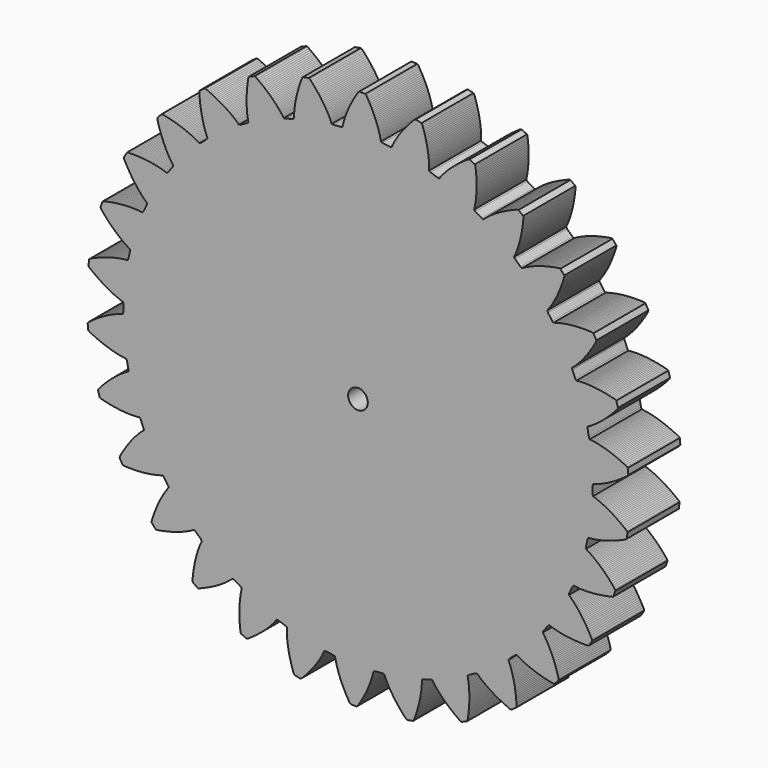
from build123d import *

# Parameters (mm, degrees)
F0_R     = 3.840639
F1_DEPTH = 25.4


with BuildPart() as f1:
    # F0 (on Front) → F1 (new body)
    with BuildSketch(Plane.XZ):
        Polygon((91.565197, -2.919908), (91.611933, 7.6e-05), (91.784145, 0.636854), (92.065323, 0.719404), (92.357423, 0.808812), (92.660445, 0.905332), (92.972103, 1.00871), (93.294429, 1.118946), (93.627931, 1.237564), (93.969561, 1.36558), (94.321097, 1.500708), (94.683809, 1.643964), (95.054141, 1.795602), (95.434379, 1.956892), (95.823253, 2.12758), (96.221525, 2.308174), (96.627925, 2.49842), (97.042707, 2.697048), (97.467141, 2.907614), (97.898433, 3.126562), (98.339631, 3.358464), (98.785909, 3.59951), (99.241839, 3.851732), (99.705135, 4.114876), (100.175035, 4.390212), (100.652047, 4.677232), (101.135663, 4.97492), (101.625883, 5.28607), (102.123469, 5.608396), (102.626389, 5.943676), (103.135151, 6.29064), (103.650517, 6.651574), (104.169947, 7.025208), (104.694711, 7.411034), (105.225317, 7.81083), (105.515131, 8.204784), (105.305581, 10.560126), (104.951251, 10.897692), (104.358669, 11.196396), (103.772945, 11.484686), (103.195603, 11.760276), (102.625119, 12.02342), (102.063017, 12.275642), (101.507519, 12.516434), (100.961673, 12.746812), (100.424463, 12.966014), (99.895381, 13.17404), (99.375697, 13.372414), (98.864395, 13.56012), (98.361475, 13.737412), (97.869731, 13.905814), (97.385861, 14.06431), (96.911897, 14.213154), (96.448601, 14.35387), (95.993941, 14.486204), (95.550457, 14.608632), (95.116117, 14.722932), (94.693207, 14.830374), (94.279695, 14.929434), (93.877359, 15.02062), (93.484675, 15.105964), (93.104183, 15.18318), (92.733597, 15.253284), (92.373933, 15.318308), (92.025191, 15.37622), (91.688895, 15.42829), (91.362251, 15.47528), (91.048307, 15.516682), (90.745031, 15.552496), (90.454201, 15.584246), (90.171753, 16.180892), (89.609651, 19.047282), (89.646735, 19.705904), (89.904545, 19.845096), (90.171753, 19.99267), (90.447597, 20.149642), (90.731061, 20.31652), (91.023669, 20.491526), (91.323897, 20.677454), (91.632507, 20.873034), (91.948229, 21.07852), (92.272079, 21.293404), (92.604057, 21.519464), (92.941623, 21.756446), (93.286301, 22.004604), (93.639107, 22.26343), (93.997247, 22.533686), (94.362245, 22.814864), (94.733085, 23.108234), (95.109513, 23.41278), (95.492545, 23.730026), (95.879641, 24.05921), (96.272325, 24.40084), (96.670597, 24.75517), (97.072933, 25.121692), (97.479333, 25.50193), (97.891575, 25.89309), (98.306357, 26.299998), (98.725457, 26.71859), (99.147097, 27.151406), (99.572801, 27.596668), (100.001553, 28.056662), (100.432591, 28.52961), (100.866931, 29.01729), (101.302033, 29.51894), (101.503455, 29.964202), (100.809019, 32.22404), (100.392713, 32.478802), (99.750601, 32.649998), (99.118141, 32.80824), (98.495079, 32.958608), (97.881923, 33.097546), (97.279689, 33.22734), (96.687107, 33.348498), (96.105701, 33.460258), (95.533947, 33.562112), (94.972861, 33.655584), (94.422951, 33.741436), (93.884217, 33.818398), (93.356405, 33.887486), (92.839769, 33.949208), (92.333801, 34.00458), (91.839263, 34.051062), (91.356917, 34.092718), (90.884223, 34.127008), (90.425245, 34.15444), (89.976173, 34.176792), (89.540563, 34.193302), (89.114859, 34.204224), (88.702617, 34.211336), (88.301805, 34.212352), (87.911661, 34.208542), (87.535741, 34.20016), (87.170489, 34.188984), (86.817683, 34.173998), (86.477323, 34.15444), (86.149409, 34.132596), (85.832417, 34.107958), (85.529141, 34.080018), (85.237041, 34.050046), (84.837245, 34.575064), (83.690689, 37.26213), (83.590105, 37.914148), (83.813625, 38.10414), (84.043495, 38.303784), (84.280731, 38.514858), (84.524825, 38.736854), (84.774253, 38.969518), (85.028761, 39.213358), (85.290889, 39.468374), (85.556573, 39.734312), (85.828353, 40.012696), (86.105213, 40.303526), (86.387661, 40.605532), (86.673157, 40.919476), (86.963733, 41.244596), (87.258881, 41.583686), (87.556061, 41.934968), (87.858067, 42.298696), (88.162613, 42.676648), (88.471223, 43.065014), (88.782881, 43.468874), (89.095555, 43.883656), (89.411023, 44.313424), (89.728269, 44.755892), (90.047801, 45.212076), (90.368857, 45.680452), (90.689913, 46.164068), (91.012239, 46.660384), (91.336089, 47.171686), (91.659939, 47.696704), (91.982519, 48.235184), (92.306369, 48.788142), (92.628695, 49.354308), (92.951275, 49.934698), (93.054653, 50.412726), (91.905557, 52.478508), (91.445309, 52.642592), (90.782369, 52.675358), (90.130351, 52.700504), (89.489763, 52.717014), (88.861367, 52.725142), (88.245417, 52.727936), (87.641913, 52.722348), (87.049331, 52.709902), (86.468941, 52.690598), (85.901251, 52.66596), (85.344483, 52.63548), (84.801685, 52.59992), (84.271079, 52.55674), (83.751395, 52.510258), (83.245935, 52.459204), (82.752413, 52.402562), (82.271591, 52.34211), (81.802961, 52.27734), (81.347031, 52.209776), (80.904563, 52.138148), (80.474541, 52.063726), (80.055695, 51.984986), (79.651835, 51.90523), (79.259151, 51.823696), (78.878913, 51.738352), (78.512391, 51.653008), (78.158061, 51.56614), (77.816431, 51.478002), (77.486739, 51.38834), (77.170001, 51.298932), (76.865709, 51.207746), (76.574879, 51.118084), (76.295225, 51.028676), (75.794845, 51.458698), (74.114889, 53.84833), (73.880701, 54.46428), (74.060025, 54.697198), (74.244429, 54.940784), (74.431881, 55.196054), (74.623397, 55.463262), (74.819231, 55.74317), (75.018875, 56.03527), (75.220297, 56.338292), (75.425529, 56.654014), (75.633809, 56.983198), (75.844375, 57.325082), (76.056719, 57.677634), (76.271603, 58.04568), (76.487757, 58.424648), (76.705689, 58.817586), (76.924891, 59.222462), (77.143839, 59.641562), (77.364311, 60.074124), (77.584783, 60.519386), (77.803985, 60.97684), (78.024457, 61.449534), (78.243659, 61.934674), (78.462607, 62.43353), (78.680285, 62.946102), (78.895423, 63.47112), (79.110307, 64.011124), (79.322651, 64.564082), (79.531947, 65.130248), (79.739973, 65.710384), (79.943935, 66.30576), (80.146881, 66.913582), (80.343731, 67.53512), (80.538041, 68.17012), (80.540835, 68.658054), (78.986101, 70.439864), (78.502485, 70.50438), (77.846657, 70.398462), (77.203275, 70.286702), (76.574879, 70.171132), (75.957405, 70.048704), (75.354917, 69.922974), (74.764113, 69.792164), (74.188041, 69.657036), (73.624161, 69.518098), (73.073235, 69.374334), (72.535517, 69.229808), (72.012023, 69.080964), (71.502245, 68.92958), (71.004659, 68.776418), (70.519519, 68.62097), (70.049619, 68.46222), (69.590895, 68.303724), (69.147157, 68.142434), (68.714341, 67.981398), (68.297019, 67.818584), (67.890111, 67.656024), (67.498951, 67.493464), (67.118713, 67.332174), (66.752191, 67.169614), (66.397861, 67.008324), (66.057501, 66.848558), (65.728063, 66.688792), (65.412595, 66.53182), (65.109573, 66.375864), (64.817219, 66.221686), (64.538835, 66.070048), (64.272897, 65.921204), (64.018135, 65.776424), (63.439269, 66.092146), (61.300589, 68.080458), (60.942195, 68.635956), (61.068941, 68.899354), (61.198735, 69.176214), (61.329545, 69.46552), (61.461879, 69.767526), (61.594213, 70.079946), (61.728833, 70.40659), (61.863961, 70.747204), (61.999089, 71.098486), (62.134217, 71.463484), (62.269345, 71.841436), (62.403203, 72.231326), (62.536807, 72.635186), (62.669141, 73.050984), (62.801475, 73.479736), (62.930761, 73.922204), (63.057507, 74.376864), (63.182983, 74.84524), (63.305411, 75.326062), (63.426823, 75.821108), (63.543917, 76.328092), (63.656947, 76.849046), (63.767183, 77.382446), (63.873355, 77.927784), (63.975463, 78.487346), (64.073253, 79.059354), (64.165455, 79.645332), (64.253847, 80.243248), (64.334873, 80.853356), (64.412089, 81.477942), (64.482447, 82.11472), (64.547217, 82.763436), (64.605129, 83.424852), (64.506069, 83.903134), (62.615039, 85.322486), (62.127359, 85.285402), (61.508361, 85.045626), (60.903841, 84.80331), (60.311259, 84.557692), (59.733663, 84.311058), (59.170291, 84.06163), (58.620381, 83.810932), (58.083933, 83.55871), (57.561963, 83.305218), (57.053455, 83.051726), (56.557139, 82.79798), (56.076317, 82.542964), (55.607941, 82.289726), (55.153281, 82.03598), (54.712083, 81.782234), (54.285109, 81.530012), (53.870073, 81.279314), (53.467991, 81.029886), (53.079117, 80.781982), (52.703197, 80.536618), (52.340485, 80.294048), (51.990473, 80.053002), (51.652907, 79.814496), (51.327533, 79.580308), (51.014859, 79.348914), (50.714631, 79.12133), (50.426341, 78.897048), (50.150751, 78.677592), (49.886083, 78.461184), (49.632591, 78.250618), (49.391545, 78.045132), (49.162691, 77.843964), (48.943489, 77.64813), (48.311029, 77.837106), (45.806081, 79.337992), (45.339991, 79.806368), (45.410603, 80.09161), (45.479183, 80.387774), (45.546747, 80.697908), (45.613041, 81.020234), (45.677557, 81.355006), (45.741057, 81.702732), (45.803033, 82.062142), (45.860945, 82.435776), (45.917333, 82.820332), (45.971435, 83.21708), (46.022235, 83.627798), (46.069225, 84.049184), (46.111897, 84.48454), (46.150251, 84.931326), (46.186319, 85.390304), (46.216545, 85.862998), (46.241183, 86.346614), (46.262011, 86.842676), (46.275981, 87.35093), (46.285379, 87.871884), (46.288173, 88.404014), (46.285379, 88.949606), (46.275981, 89.505104), (46.259217, 90.074064), (46.236103, 90.654454), (46.204353, 91.245258), (46.165491, 91.848762), (46.118501, 92.463696), (46.064907, 93.089298), (46.001407, 93.726076), (45.928509, 94.375046), (45.848753, 95.033668), (45.651395, 95.48147), (43.507381, 96.476642), (43.038751, 96.33872), (42.481983, 95.976262), (41.940455, 95.61228), (41.412897, 95.250076), (40.900325, 94.887618), (40.399945, 94.52643), (39.913535, 94.16702), (39.442111, 93.808626), (38.983133, 93.453026), (38.538125, 93.098696), (38.106833, 92.747414), (37.689257, 92.398926), (37.284381, 92.053232), (36.892713, 91.709824), (36.512475, 91.370734), (36.147223, 91.034692), (35.793147, 90.70373), (35.452533, 90.37607), (35.123603, 90.05349), (34.807881, 89.734974), (34.503335, 89.42103), (34.211235, 89.113436), (33.930057, 88.810414), (33.661325, 88.512726), (33.403769, 88.221896), (33.156881, 87.936908), (32.921169, 87.657254), (32.696633, 87.385474), (32.483019, 87.119536), (32.279057, 86.860456), (32.086017, 86.608234), (31.902883, 86.364648), (31.730417, 86.127412), (31.073319, 86.18126), (28.308783, 87.127918), (27.757857, 87.488852), (27.765985, 87.782476), (27.771573, 88.086768), (27.773097, 88.404014), (27.771573, 88.733198), (27.764461, 89.075082), (27.755063, 89.427634), (27.739823, 89.792886), (27.720519, 90.169314), (27.695881, 90.55641), (27.665401, 90.957476), (27.629333, 91.36794), (27.586661, 91.791104), (27.538655, 92.22519), (27.483283, 92.670452), (27.422831, 93.127652), (27.353997, 93.595012), (27.278051, 94.074564), (27.195501, 94.563768), (27.103045, 95.064148), (27.003985, 95.575196), (26.896289, 96.095896), (26.780719, 96.628026), (26.655497, 97.170824), (26.520369, 97.723782), (26.377113, 98.28563), (26.223951, 98.857892), (26.059867, 99.440568), (25.887655, 100.03188), (25.702997, 100.63259), (25.508941, 101.242952), (25.303455, 101.861696), (25.087047, 102.490092), (24.801805, 102.885824), (22.497517, 103.41516), (22.068003, 103.181734), (21.599373, 102.710564), (21.145729, 102.243458), (20.704785, 101.777876), (20.277557, 101.317374), (19.864553, 100.86119), (19.463233, 100.408054), (19.075883, 99.960252), (18.701233, 99.516514), (18.340045, 99.07684), (17.991557, 98.644024), (17.653991, 98.215526), (17.330141, 97.792362), (17.018483, 97.376056), (16.718255, 96.965592), (16.430219, 96.561986), (16.153359, 96.163714), (15.887167, 95.772046), (15.633675, 95.387998), (15.389835, 95.010046), (15.156917, 94.64073), (14.935175, 94.278526), (14.724101, 93.924196), (14.521663, 93.577232), (14.330147, 93.239412), (14.149553, 92.908704), (13.975817, 92.586124), (13.813257, 92.273704), (13.659079, 91.968904), (13.514553, 91.673756), (13.377901, 91.387498), (13.249885, 91.110384), (13.129997, 90.843176), (12.475185, 90.759102), (9.576029, 91.110384), (8.961095, 91.348636), (8.907501, 91.636926), (8.849589, 91.93563), (8.786089, 92.247034), (8.715985, 92.56809), (8.638769, 92.900576), (8.554695, 93.24373), (8.465033, 93.597552), (8.367497, 93.961534), (8.262595, 94.336184), (8.149819, 94.72074), (8.028407, 95.116218), (7.900391, 95.521602), (7.762469, 95.934606), (7.616419, 96.359548), (7.460463, 96.79338), (7.296633, 97.237118), (7.122897, 97.688984), (6.939763, 98.15101), (6.746723, 98.62218), (6.542761, 99.101732), (6.329147, 99.589412), (6.104611, 100.085474), (5.869153, 100.589918), (5.623535, 101.10122), (5.365979, 101.622174), (5.097247, 102.149986), (4.816069, 102.685926), (4.523969, 103.227454), (4.219423, 103.777364), (3.902685, 104.334132), (3.573247, 104.896234), (3.229839, 105.465448), (2.868905, 105.794886), (0.505689, 105.83197), (0.133579, 105.515232), (-0.227609, 104.95694), (-0.574827, 104.40576), (-0.908075, 103.85839), (-1.230655, 103.31991), (-1.540789, 102.786256), (-1.838477, 102.259968), (-2.123719, 101.741808), (-2.398039, 101.229236), (-2.659659, 100.725046), (-2.911881, 100.22873), (-3.151911, 99.73978), (-3.380511, 99.258704), (-3.599459, 98.78601), (-3.807739, 98.322968), (-4.005859, 97.866784), (-4.193565, 97.420252), (-4.371365, 96.982102), (-4.540783, 96.553604), (-4.700549, 96.134758), (-4.850917, 95.72404), (-4.992649, 95.322974), (-5.126253, 94.933084), (-5.250459, 94.551576), (-5.367553, 94.180736), (-5.476265, 93.819548), (-5.578119, 93.469536), (-5.673369, 93.129176), (-5.760237, 92.799992), (-5.840247, 92.479952), (-5.914669, 92.171342), (-5.982233, 91.873908), (-6.044209, 91.587142), (-6.667017, 91.369464), (-9.576333, 91.110384), (-10.227843, 91.215286), (-10.339603, 91.486558), (-10.458221, 91.767736), (-10.584967, 92.058312), (-10.721365, 92.357524), (-10.865891, 92.667658), (-11.018799, 92.984396), (-11.180089, 93.312564), (-11.351031, 93.64886), (-11.531371, 93.993284), (-11.721871, 94.34609), (-11.923039, 94.707024), (-12.132589, 95.07634), (-12.353061, 95.452514), (-12.584455, 95.83834), (-12.826771, 96.229754), (-13.078993, 96.629296), (-13.343661, 97.036204), (-13.618997, 97.449208), (-13.906017, 97.869832), (-14.204975, 98.295536), (-14.515109, 98.728098), (-14.837689, 99.167518), (-15.172461, 99.611256), (-15.519425, 100.062106), (-15.879343, 100.51702), (-16.252469, 100.977014), (-16.638549, 101.443104), (-17.036821, 101.913004), (-17.450333, 102.386714), (-17.876037, 102.864996), (-18.314187, 103.347342), (-18.767577, 103.832482), (-19.189471, 104.078862), (-21.510015, 103.624202), (-21.807449, 103.237106), (-22.044431, 102.617092), (-22.269221, 102.003936), (-22.482581, 101.400432), (-22.685527, 100.806326), (-22.877043, 100.220602), (-23.058653, 99.64326), (-23.231119, 99.07684), (-23.392409, 98.518802), (-23.543793, 97.971686), (-23.686033, 97.432952), (-23.819637, 96.904886), (-23.943589, 96.38698), (-24.059159, 95.879742), (-24.166855, 95.38241), (-24.265915, 94.895746), (-24.356847, 94.419242), (-24.439397, 93.954676), (-24.516867, 93.499762), (-24.585447, 93.056024), (-24.647677, 92.623462), (-24.702541, 92.203092), (-24.751055, 91.792374), (-24.794997, 91.394102), (-24.832589, 91.00726), (-24.863831, 90.630832), (-24.890247, 90.267104), (-24.912345, 89.914298), (-24.928855, 89.573684), (-24.941047, 89.244754), (-24.949683, 88.927508), (-24.953493, 88.622962), (-24.955017, 88.329592), (-25.517119, 87.986184), (-28.309087, 87.127918), (-28.969233, 87.096168), (-29.134587, 87.337214), (-29.309593, 87.587912), (-29.493997, 87.845976), (-29.688561, 88.11039), (-29.893793, 88.383186), (-30.110455, 88.66284), (-30.336261, 88.948336), (-30.573243, 89.241706), (-30.822671, 89.540664), (-31.081497, 89.846734), (-31.353277, 90.157884), (-31.634455, 90.476654), (-31.929349, 90.79898), (-32.235165, 91.127148), (-32.553427, 91.460396), (-32.884389, 91.797962), (-33.226019, 92.14137), (-33.581365, 92.488334), (-33.949411, 92.83987), (-34.330919, 93.193946), (-34.724111, 93.553356), (-35.131781, 93.914798), (-35.550627, 94.279796), (-35.984967, 94.647842), (-36.431499, 95.018682), (-36.891493, 95.391808), (-37.365711, 95.766712), (-37.853391, 96.142886), (-38.356565, 96.521854), (-38.871677, 96.901076), (-39.400759, 97.281314), (-39.945081, 97.661552), (-40.409647, 97.814714), (-42.584141, 96.88863), (-42.795215, 96.447686), (-42.897069, 95.791604), (-42.989271, 95.145174), (-43.073599, 94.50992), (-43.148021, 93.887112), (-43.214061, 93.273702), (-43.271719, 92.671468), (-43.321503, 92.081934), (-43.364175, 91.503068), (-43.398719, 90.935632), (-43.426405, 90.37988), (-43.446725, 89.835558), (-43.460695, 89.302412), (-43.469077, 88.782982), (-43.470347, 88.273204), (-43.464759, 87.776634), (-43.455361, 87.291748), (-43.440121, 86.819308), (-43.420817, 86.35906), (-43.395925, 85.911004), (-43.365699, 85.475648), (-43.332425, 85.051214), (-43.295595, 84.640496), (-43.255209, 84.242224), (-43.211267, 83.854874), (-43.163261, 83.481748), (-43.113477, 83.119036), (-43.060899, 82.770548), (-43.007305, 82.434252), (-42.950917, 82.109132), (-42.893005, 81.797474), (-42.833569, 81.49877), (-42.774387, 81.21048), (-43.253939, 80.758614), (-45.806131, 79.337992), (-46.443925, 79.16959), (-46.656269, 79.372282), (-46.879789, 79.580308), (-47.113977, 79.794176), (-47.359087, 80.013124), (-47.616897, 80.236136), (-47.885375, 80.46499), (-48.166553, 80.697908), (-48.460177, 80.93489), (-48.764469, 81.175936), (-49.083239, 81.421554), (-49.412169, 81.669458), (-49.754053, 81.92168), (-50.109653, 82.176442), (-50.477699, 82.434252), (-50.857937, 82.693332), (-51.250621, 82.954952), (-51.657275, 83.21962), (-52.077645, 83.485558), (-52.510461, 83.751496), (-52.956739, 84.020482), (-53.416987, 84.289214), (-53.889681, 84.558962), (-54.376091, 84.829218), (-54.876471, 85.098204), (-55.390567, 85.367952), (-55.918125, 85.636684), (-56.461177, 85.90567), (-57.016421, 86.171608), (-57.585381, 86.437546), (-58.168565, 86.702214), (-58.766481, 86.963834), (-59.378367, 87.222914), (-59.863253, 87.275492), (-61.798225, 85.916592), (-61.912525, 85.442374), (-61.875441, 84.778164), (-61.832515, 84.127924), (-61.781715, 83.489876), (-61.725327, 82.864274), (-61.663097, 82.250864), (-61.594517, 81.650154), (-61.520095, 81.061636), (-61.441355, 80.486834), (-61.357281, 79.924986), (-61.267619, 79.375076), (-61.175417, 78.838882), (-61.077627, 78.315134), (-60.977043, 77.804086), (-60.873665, 77.306754), (-60.765969, 76.821614), (-60.654717, 76.35019), (-60.541433, 75.891212), (-60.427133, 75.44468), (-60.308515, 75.012118), (-60.189897, 74.591748), (-60.068739, 74.183824), (-59.947581, 73.78987), (-59.824899, 73.408108), (-59.700693, 73.038792), (-59.576741, 72.683192), (-59.452789, 72.338768), (-59.330361, 72.00806), (-59.206155, 71.691068), (-59.083219, 71.385252), (-58.962315, 71.091882), (-58.842427, 70.811974), (-58.723809, 70.543242), (-59.098459, 70.00019), (-61.300893, 68.080458), (-61.889411, 67.783024), (-62.138839, 67.937202), (-62.400459, 68.094174), (-62.674525, 68.254448), (-62.960021, 68.417008), (-63.258725, 68.582108), (-63.568859, 68.750256), (-63.892709, 68.919674), (-64.229005, 69.09087), (-64.577747, 69.263082), (-64.938681, 69.436564), (-65.312315, 69.61157), (-65.699411, 69.786576), (-66.100477, 69.961582), (-66.512465, 70.137858), (-66.939693, 70.313118), (-67.379367, 70.486854), (-67.831233, 70.660336), (-68.297069, 70.833818), (-68.776621, 71.00476), (-69.268619, 71.174432), (-69.774333, 71.341056), (-70.292493, 71.50641), (-70.824369, 71.66897), (-71.370215, 71.828736), (-71.929523, 71.985962), (-72.501531, 72.13887), (-73.087001, 72.288984), (-73.686441, 72.435034), (-74.298327, 72.576004), (-74.923929, 72.712148), (-75.563501, 72.844482), (-76.215265, 72.971482), (-76.701675, 72.921698), (-78.311273, 71.190942), (-78.323719, 70.703008), (-78.149983, 70.060896), (-77.972183, 69.43377), (-77.790319, 68.820614), (-77.604391, 68.219904), (-77.415415, 67.63291), (-77.223899, 67.059632), (-77.029589, 66.50007), (-76.832739, 65.954224), (-76.634111, 65.420824), (-76.432943, 64.902918), (-76.230505, 64.397204), (-76.026543, 63.904952), (-75.821057, 63.426924), (-75.615825, 62.961342), (-75.409069, 62.508968), (-75.203837, 62.070818), (-74.997081, 61.645114), (-74.791849, 61.233126), (-74.586363, 60.83333), (-74.382401, 60.447758), (-74.179963, 60.074124), (-73.978795, 59.71319), (-73.778897, 59.365718), (-73.581793, 59.029676), (-73.386213, 58.707096), (-73.194697, 58.396962), (-73.004451, 58.099274), (-72.818523, 57.814286), (-72.635135, 57.541236), (-72.454541, 57.279362), (-72.279535, 57.029934), (-72.107323, 56.791682), (-72.360815, 56.184114), (-74.115193, 53.84833), (-74.629035, 53.434818), (-74.906149, 53.532608), (-75.194185, 53.631668), (-75.495937, 53.732506), (-75.808865, 53.83182), (-76.135255, 53.932404), (-76.474345, 54.031464), (-76.825627, 54.129508), (-77.189609, 54.227298), (-77.567053, 54.323564), (-77.955673, 54.418814), (-78.358009, 54.51127), (-78.774315, 54.601948), (-79.201543, 54.690086), (-79.642487, 54.775684), (-80.095877, 54.858234), (-80.561612, 54.93799), (-81.039767, 55.013936), (-81.531739, 55.085564), (-82.036107, 55.153382), (-82.55287, 55.216882), (-83.082028, 55.276064), (-83.623607, 55.329658), (-84.177581, 55.377918), (-84.745347, 55.42059), (-85.324112, 55.457674), (-85.916668, 55.489424), (-86.520223, 55.514062), (-87.136224, 55.532096), (-87.764595, 55.541748), (-88.403989, 55.545812), (-89.057201, 55.541748), (-89.721411, 55.530826), (-90.185799, 55.381982), (-91.40124, 53.353284), (-91.313051, 52.872462), (-91.009902, 52.281404), (-90.703959, 51.705332), (-90.399413, 51.14323), (-90.092098, 50.59332), (-89.786181, 50.058396), (-89.478866, 49.53922), (-89.172948, 49.031982), (-88.867031, 48.538714), (-88.561139, 48.058908), (-88.256567, 47.593326), (-87.953393, 47.14146), (-87.65159, 46.701786), (-87.35121, 46.276082), (-87.053522, 45.86384), (-86.758653, 45.464298), (-86.465131, 45.078218), (-86.175723, 44.705092), (-85.889084, 44.343904), (-85.605239, 43.996686), (-85.325483, 43.661914), (-85.048471, 43.338064), (-84.777021, 43.02793), (-84.509686, 42.728718), (-84.246466, 42.442206), (-83.988783, 42.166362), (-83.736612, 41.903218), (-83.488581, 41.650996), (-83.247408, 41.411474), (-83.010375, 41.181096), (-82.780226, 40.963418), (-82.556985, 40.755392), (-82.339256, 40.559812), (-82.461913, 39.910842), (-83.691146, 37.26213), (-84.108671, 36.751082), (-84.39945, 36.789436), (-84.702625, 36.826774), (-85.016797, 36.861064), (-85.344787, 36.894084), (-85.685147, 36.924564), (-86.036531, 36.950726), (-86.400361, 36.974348), (-86.777932, 36.993398), (-87.166526, 37.009908), (-87.567567, 37.02083), (-87.97958, 37.027942), (-88.403989, 37.030736), (-88.840843, 37.027942), (-89.290093, 37.02083), (-89.750367, 37.007114), (-90.223035, 36.988064), (-90.706727, 36.961648), (-91.202789, 36.930152), (-91.709926, 36.892814), (-92.229457, 36.847348), (-92.758616, 36.793754), (-93.300194, 36.734318), (-93.852797, 36.667008), (-94.416397, 36.591062), (-94.98965, 36.505464), (-95.575323, 36.413262), (-96.170648, 36.312932), (-96.776972, 36.200918), (-97.394319, 36.08103), (-98.021343, 35.95149), (-98.659391, 35.812552), (-99.305669, 35.663708), (-99.730103, 35.420884), (-100.496294, 33.184414), (-100.310239, 32.732548), (-99.889945, 32.217182), (-99.472394, 31.716802), (-99.056266, 31.230392), (-98.642856, 30.756682), (-98.232189, 30.297704), (-97.822918, 29.852442), (-97.417763, 29.41988), (-97.016748, 29.00078), (-96.61713, 28.595904), (-96.222998, 28.204236), (-95.831635, 27.823998), (-95.445809, 27.457476), (-95.064097, 27.103146), (-94.686476, 26.762786), (-94.314442, 26.433602), (-93.947869, 26.11661), (-93.586833, 25.812064), (-93.231259, 25.51844), (-92.881272, 25.237262), (-92.538118, 24.96726), (-92.200527, 24.70818), (-91.871165, 24.460276), (-91.547315, 24.224564), (-91.230374, 23.998504), (-90.920316, 23.78362), (-90.618539, 23.578134), (-90.323645, 23.383824), (-90.037006, 23.197896), (-89.758622, 23.02289), (-89.488543, 22.857536), (-89.22672, 22.700564), (-88.973127, 22.554514), (-88.958014, 21.894368), (-89.609803, 19.047282), (-89.911606, 18.460034), (-90.203731, 18.43819), (-90.508277, 18.411774), (-90.823847, 18.380532), (-91.15044, 18.344464), (-91.489428, 18.301792), (-91.839466, 18.254802), (-92.200527, 18.202732), (-92.572586, 18.143296), (-92.955669, 18.078526), (-93.351172, 18.005374), (-93.756302, 17.926634), (-94.172481, 17.84129), (-94.598287, 17.747818), (-95.036513, 17.64698), (-95.484391, 17.538268), (-95.941871, 17.421174), (-96.410424, 17.295698), (-96.888579, 17.16184), (-97.376412, 17.018584), (-97.873896, 16.86593), (-98.382379, 16.70464), (-98.899142, 16.533698), (-99.425557, 16.351834), (-99.960252, 16.160318), (-100.504549, 15.958896), (-101.057151, 15.746806), (-101.619406, 15.52354), (-102.189915, 15.289352), (-102.767308, 15.044242), (-103.354353, 14.786432), (-103.948281, 14.517446), (-104.550489, 14.236268), (-104.915665, 13.911402), (-105.199536, 11.564442), (-104.923946, 11.162106), (-104.405786, 10.746054), (-103.893163, 10.34194), (-103.38468, 9.952304), (-102.881684, 9.57613), (-102.384225, 9.212148), (-101.892252, 8.860612), (-101.405792, 8.523046), (-100.92624, 8.196402), (-100.452199, 7.883982), (-99.983671, 7.581976), (-99.523423, 7.291146), (-99.068636, 7.012762), (-98.62218, 6.746824), (-98.182582, 6.490284), (-97.749868, 6.246698), (-97.325434, 6.01251), (-96.907883, 5.78899), (-96.50001, 5.577154), (-96.09897, 5.374208), (-95.707632, 5.181676), (-95.323127, 4.998034), (-94.948299, 4.826076), (-94.583148, 4.661992), (-94.226253, 4.506036), (-93.878959, 4.359986), (-93.539945, 4.222318), (-93.212006, 4.093032), (-92.893667, 3.97162), (-92.58361, 3.85859), (-92.285972, 3.752418), (-91.996539, 3.653104), (-91.718206, 3.562426), (-91.565247, 2.92006), (-91.612085, 7.6e-05), (-91.784348, -0.636702), (-92.065475, -0.719252), (-92.357626, -0.808914), (-92.6608, -0.90518), (-92.97223, -1.008558), (-93.294657, -1.119048), (-93.628134, -1.237666), (-93.969916, -1.365682), (-94.321325, -1.50081), (-94.683732, -1.644066), (-95.05442, -1.795704), (-95.43476, -1.95674), (-95.82338, -2.127682), (-96.221626, -2.308276), (-96.628128, -2.498268), (-97.042935, -2.696896), (-97.467395, -2.907716), (-97.898687, -3.126664), (-98.339656, -3.358566), (-98.786137, -3.599358), (-99.242296, -3.85158), (-99.705312, -4.114724), (-100.175212, -4.390314), (-100.652021, -4.67708), (-101.135713, -4.974768), (-101.626289, -5.285918), (-102.123773, -5.608498), (-102.626744, -5.943524), (-103.135252, -6.290742), (-103.650618, -6.651676), (-104.17015, -7.02531), (-104.695193, -7.411136), (-105.225723, -7.810932), (-105.515105, -8.204886), (-105.305657, -10.559974), (-104.951505, -10.89754), (-104.358948, -11.196498), (-103.773275, -11.484788), (-103.195882, -11.760124), (-102.625373, -12.023268), (-102.063118, -12.27549), (-101.507798, -12.516536), (-100.962079, -12.746914), (-100.424666, -12.966116), (-99.895482, -13.174142), (-99.375951, -13.372516), (-98.864699, -13.559714), (-98.361703, -13.737514), (-97.869756, -13.905916), (-97.386064, -14.064158), (-96.911998, -14.213002), (-96.448982, -14.353464), (-95.994271, -14.485798), (-95.550533, -14.60848), (-95.116447, -14.72278), (-94.693384, -14.830476), (-94.279974, -14.929536), (-93.877587, -15.020468), (-93.484852, -15.106066), (-93.104513, -15.183282), (-92.733825, -15.253386), (-92.374161, -15.31841), (-92.025521, -15.376068), (-91.68925, -15.428392), (-91.362682, -15.475382), (-91.048459, -15.51653), (-90.74531, -15.552598), (-90.454531, -15.584348), (-90.172057, -16.180994), (-89.609803, -19.04713), (-89.647014, -19.705752), (-89.904722, -19.845198), (-90.172057, -19.992518), (-90.447647, -20.149744), (-90.731518, -20.316368), (-91.023669, -20.491374), (-91.324074, -20.677302), (-91.632761, -20.873136), (-91.94833, -21.078368), (-92.27218, -21.293252), (-92.604285, -21.519566), (-92.941877, -21.756548), (-93.286402, -22.004452), (-93.639183, -22.263532), (-93.997475, -22.533788), (-94.362651, -22.814966), (-94.733364, -23.108336), (-95.109563, -23.412882), (-95.492646, -23.729874), (-95.879895, -24.059058), (-96.272604, -24.400942), (-96.670851, -24.755018), (-97.073263, -25.12154), (-97.479764, -25.502032), (-97.891829, -25.893192), (-98.306611, -26.299846), (-98.725533, -26.718692), (-99.147198, -27.151508), (-99.573004, -27.59677), (-100.001578, -28.056764), (-100.432921, -28.529458), (-100.867007, -29.017392), (-101.302439, -29.519042), (-101.503658, -29.963796), (-100.80912, -32.224142), (-100.392941, -32.478904), (-99.750778, -32.649846), (-99.118242, -32.808342), (-98.495383, -32.95871), (-97.882151, -33.097648), (-97.279968, -33.227188), (-96.687386, -33.348346), (-96.105878, -33.46036), (-95.533997, -33.562214), (-94.973115, -33.655686), (-94.423281, -33.741538), (-93.884471, -33.818246), (-93.356684, -33.887588), (-92.839921, -33.94931), (-92.334182, -34.004682), (-91.839466, -34.051164), (-91.357145, -34.09282), (-90.884477, -34.12711), (-90.4256, -34.154542), (-89.976376, -34.17664), (-89.540893, -34.193404), (-89.115087, -34.204326), (-88.703048, -34.211438), (-88.302033, -34.212454), (-87.912042, -34.20839), (-87.535842, -34.200008), (-87.170692, -34.189086), (-86.817911, -34.173846), (-86.477526, -34.154542), (-86.149536, -34.132698), (-85.832594, -34.10806), (-85.52942, -34.08012), (-85.237295, -34.050148), (-84.837651, -34.575166), (-83.691146, -37.262232), (-83.590511, -37.913996), (-83.813752, -38.104242), (-84.043901, -38.303886), (-84.280908, -38.51496), (-84.52485, -38.736702), (-84.774278, -38.96962), (-85.029192, -39.21346), (-85.291016, -39.468476), (-85.556979, -39.734414), (-85.82848, -40.012798), (-86.105441, -40.303374), (-86.38794, -40.60538), (-86.673207, -40.919324), (-86.963961, -41.244698), (-87.258881, -41.583788), (-87.556518, -41.93507), (-87.858321, -42.298798), (-88.162867, -42.676496), (-88.471553, -43.065116), (-88.782982, -43.468976), (-89.095783, -43.883758), (-89.411353, -44.313526), (-89.728319, -44.755994), (-90.048004, -45.211924), (-90.369111, -45.680554), (-90.690167, -46.16417), (-91.012645, -46.660486), (-91.33647, -47.171788), (-91.66032, -47.696552), (-91.982798, -48.235286), (-92.306597, -48.78799), (-92.629076, -49.35441), (-92.951554, -49.934546), (-93.054881, -50.412574), (-91.905607, -52.47861), (-91.445334, -52.642694), (-90.782496, -52.67546), (-90.130706, -52.700352), (-89.489915, -52.717116), (-88.861519, -52.72499), (-88.245544, -52.728038), (-87.641963, -52.722196), (-87.049407, -52.710004), (-86.469271, -52.690446), (-85.901505, -52.665808), (-85.344787, -52.635582), (-84.801812, -52.599768), (-84.271282, -52.556842), (-83.75175, -52.51036), (-83.246036, -52.459052), (-82.752667, -52.402664), (-82.271743, -52.341958), (-81.803215, -52.277188), (-81.347056, -52.209624), (-80.904715, -52.137996), (-80.474795, -52.063574), (-80.055745, -51.985088), (-79.652139, -51.905332), (-79.259455, -51.823798), (-78.878963, -51.738454), (-78.512441, -51.65311), (-78.158365, -51.566242), (-77.816481, -51.478104), (-77.487297, -51.388442), (-77.170305, -51.29878), (-76.865759, -51.207848), (-76.574929, -51.118186), (-76.295275, -51.028524), (-75.794895, -51.458546), (-74.115193, -53.848432), (-73.880751, -54.464382), (-74.060075, -54.697046), (-74.244733, -54.940886), (-74.432185, -55.195902), (-74.623701, -55.463364), (-74.819281, -55.743018), (-75.019179, -56.035118), (-75.220347, -56.338394), (-75.425579, -56.654116), (-75.633605, -56.983046), (-75.844679, -57.32493), (-76.056769, -57.677736), (-76.271653, -58.045782), (-76.488061, -58.424496), (-76.705739, -58.817688), (-76.924941, -59.222564), (-77.144143, -59.64141), (-77.364615, -60.074226), (-77.585087, -60.519488), (-77.804035, -60.976942), (-78.024761, -61.449382), (-78.243709, -61.934268), (-78.462911, -62.433632), (-78.680589, -62.946204), (-78.895473, -63.470968), (-79.110611, -64.011226), (-79.322701, -64.56393), (-79.532251, -65.130096), (-79.740277, -65.710486), (-79.944239, -66.305608), (-80.146931, -66.91343), (-80.343781, -67.534714), (-80.538193, -68.169968), (-80.540936, -68.657902), (-78.986405, -70.439966), (-78.502789, -70.504482), (-77.846961, -70.398564), (-77.203325, -70.286804), (-76.574929, -70.17098), (-75.957455, -70.048298), (-75.355475, -69.923076), (-74.764163, -69.792266), (-74.188091, -69.657138), (-73.624465, -69.517946), (-73.073285, -69.374436), (-72.535821, -69.22991), (-72.012327, -69.081066), (-71.502295, -68.929682), (-71.004963, -68.77652), (-70.519569, -68.620818), (-70.049669, -68.462068), (-69.591199, -68.303826), (-69.147461, -68.142536), (-68.714391, -67.981246), (-68.297069, -67.818686), (-67.890415, -67.656126), (-67.499255, -67.493566), (-67.119017, -67.332276), (-66.752495, -67.169716), (-66.398165, -67.008426), (-66.057805, -66.84866), (-65.728367, -66.688894), (-65.412899, -66.531668), (-65.109369, -66.375966), (-64.817269, -66.221788), (-64.539139, -66.069896), (-64.272947, -65.921052), (-64.018439, -65.776526), (-63.439319, -66.092248), (-61.300893, -68.08056), (-60.942499, -68.636058), (-61.069245, -68.899202), (-61.199039, -69.176316), (-61.329849, -69.465368), (-61.462183, -69.767374), (-61.594517, -70.080048), (-61.729137, -70.406692), (-61.864265, -70.747052), (-61.999393, -71.098588), (-62.134521, -71.463586), (-62.269649, -71.841284), (-62.403253, -72.231174), (-62.537111, -72.635034), (-62.669191, -73.051086), (-62.801525, -73.479838), (-62.931065, -73.922052), (-63.057811, -74.376966), (-63.183287, -74.845342), (-63.305715, -75.326418), (-63.427127, -75.820956), (-63.544221, -76.328194), (-63.656997, -76.849148), (-63.767487, -77.382294), (-63.873659, -77.92814), (-63.975767, -78.487448), (-64.073303, -79.059456), (-64.165759, -79.64518), (-64.253897, -80.243096), (-64.335177, -80.853636), (-64.412393, -81.477891), (-64.482497, -82.114542), (-64.547521, -82.763614), (-64.605433, -83.425081), (-64.506119, -83.903236), (-62.615343, -85.322639), (-62.127409, -85.285402), (-61.508665, -85.045626), (-60.903891, -84.803082), (-60.311309, -84.557819), (-59.733967, -84.311134), (-59.170595, -84.061732), (-58.620431, -83.810907), (-58.084237, -83.558736), (-57.562267, -83.305167), (-57.053759, -83.051625), (-56.557443, -82.798056), (-56.076621, -82.543117), (-55.607991, -82.289548), (-55.153331, -82.036006), (-54.712387, -81.782437), (-54.285159, -81.530266), (-53.870377, -81.279441), (-53.467787, -81.030039), (-53.079421, -80.781982), (-52.703247, -80.536694), (-52.340789, -80.29415), (-51.990777, -80.053104), (-51.653211, -79.814598), (-51.327837, -79.58041), (-51.014909, -79.348762), (-50.714681, -79.121432), (-50.426391, -78.896896), (-50.151055, -78.677694), (-49.886387, -78.461286), (-49.632641, -78.250466), (-49.391849, -78.045234), (-49.162741, -77.844066), (-48.943793, -77.648232), (-48.311333, -77.837208), (-45.806131, -79.33784), (-45.340041, -79.80647), (-45.410653, -80.091458), (-45.479487, -80.387876), (-45.546797, -80.697934), (-45.613091, -81.020412), (-45.677861, -81.35526), (-45.741361, -81.702529), (-45.803337, -82.062193), (-45.861249, -82.435649), (-45.917637, -82.820104), (-45.971231, -83.216979), (-46.022539, -83.627646), (-46.069275, -84.049311), (-46.111947, -84.484794), (-46.150555, -84.93125), (-46.186369, -85.390152), (-46.216849, -85.862795), (-46.241487, -86.346487), (-46.262315, -86.8426), (-46.276031, -87.351108), (-46.285683, -87.871986), (-46.288477, -88.403887), (-46.285683, -88.949606), (-46.276031, -89.504952), (-46.259521, -90.07409), (-46.235899, -90.654276), (-46.204403, -91.245411), (-46.165795, -91.849016), (-46.118805, -92.46362), (-46.065211, -93.089247), (-46.001711, -93.725898), (-45.928559, -94.374945), (-45.848803, -95.033643), (-45.651699, -95.481496), (-43.507431, -96.476464), (-43.039055, -96.338644), (-42.482287, -95.976237), (-41.940759, -95.612407), (-41.412947, -95.25), (-40.900121, -94.887593), (-40.400249, -94.526532), (-39.913839, -94.166868), (-39.442415, -93.808601), (-38.983437, -93.453026), (-38.538175, -93.098874), (-38.107137, -92.747465), (-37.689561, -92.39885), (-37.284177, -92.052953), (-36.893017, -91.709824), (-36.512525, -91.370836), (-36.147527, -91.034591), (-35.793197, -90.703857), (-35.452837, -90.375892), (-35.123399, -90.053414), (-34.807931, -89.735101), (-34.503639, -89.420929), (-34.211539, -89.113614), (-33.930361, -88.81044), (-33.661375, -88.512777), (-33.403565, -88.221998), (-33.156931, -87.936756), (-32.921219, -87.657026), (-32.696937, -87.385525), (-32.483069, -87.119562), (-32.279361, -86.860507), (-32.086321, -86.608336), (-31.903187, -86.36442), (-31.730721, -86.127387), (-31.073369, -86.181159), (-28.309087, -87.127867), (-27.758161, -87.488903), (-27.766289, -87.7824), (-27.771877, -88.086971), (-27.773147, -88.403887), (-27.771877, -88.733249), (-27.764765, -89.075031), (-27.755367, -89.427812), (-27.740127, -89.792962), (-27.720569, -90.169187), (-27.695931, -90.55641), (-27.665705, -90.9574), (-27.629637, -91.368067), (-27.586965, -91.79113), (-27.538705, -92.225216), (-27.483587, -92.670325), (-27.422881, -93.12783), (-27.354047, -93.594987), (-27.278355, -94.074564), (-27.195805, -94.563743), (-27.103349, -95.063996), (-27.004289, -95.575222), (-26.896593, -96.096099), (-26.780769, -96.628026), (-26.655547, -97.170977), (-26.520419, -97.723579), (-26.377417, -98.285833), (-26.224255, -98.857714), (-26.060171, -99.440619), (-25.887959, -100.031804), (-25.703047, -100.632616), (-25.509245, -101.243105), (-25.303759, -101.861849), (-25.087097, -102.490219), (-24.802109, -102.885723), (-22.497821, -103.414881), (-22.068053, -103.181988), (-21.599677, -102.710717), (-21.146033, -102.243534), (-20.705089, -101.777775), (-20.277861, -101.317501), (-19.864603, -100.861368), (-19.463537, -100.408003), (-19.076187, -99.960151), (-18.701537, -99.516387), (-18.340349, -99.07684), (-17.991861, -98.644126), (-17.654041, -98.215526), (-17.330191, -97.792489), (-17.018787, -97.37631), (-16.718559, -96.965668), (-16.430269, -96.561885), (-16.153409, -96.163638), (-15.887471, -95.7723), (-15.633725, -95.387795), (-15.390139, -95.010224), (-15.157221, -94.640908), (-14.935225, -94.278501), (-14.724405, -93.924349), (-14.521967, -93.577054), (-14.330197, -93.239463), (-14.149603, -92.90873), (-13.976121, -92.586251), (-13.813561, -92.27345), (-13.659383, -91.968904), (-13.514603, -91.67401), (-13.378205, -91.387371), (-13.250189, -91.110384), (-13.130047, -90.843049), (-12.475489, -90.758975), (-9.576333, -91.110384), (-8.961399, -91.348789), (-8.907805, -91.636799), (-8.849893, -91.935833), (-8.786393, -92.247263), (-8.716289, -92.568344), (-8.638819, -92.900449), (-8.554999, -93.243578), (-8.465337, -93.59773), (-8.367547, -93.96156), (-8.262899, -94.336387), (-8.149869, -94.720842), (-8.028711, -95.116345), (-7.900441, -95.521475), (-7.762519, -95.934886), (-7.616469, -96.35932), (-7.460767, -96.793406), (-7.296937, -97.237144), (-7.122947, -97.689162), (-6.940067, -98.150782), (-6.747027, -98.622079), (-6.543065, -99.101631), (-6.329197, -99.589463), (-6.104915, -100.085525), (-5.869203, -100.589893), (-5.623839, -101.101144), (-5.366283, -101.622047), (-5.097297, -102.149859), (-4.816119, -102.685901), (-4.524019, -103.22748), (-4.219727, -103.777313), (-3.902481, -104.334031), (-3.573297, -104.896285), (-3.230143, -105.465397), (-2.869209, -105.794759), (-0.505993, -105.83197), (-0.133883, -105.515004), (0.227305, -104.956915), (0.574523, -104.405684), (0.908025, -103.858619), (1.230351, -103.319809), (1.540485, -102.78651), (1.838173, -102.260095), (2.123669, -101.741935), (2.397735, -101.229312), (2.659609, -100.724945), (2.911831, -100.228857), (3.151607, -99.739679), (3.380207, -99.25873), (3.599409, -98.786036), (3.807435, -98.323019), (4.005809, -97.866911), (4.193261, -97.420405), (4.371061, -96.982229), (4.540479, -96.55363), (4.700245, -96.134707), (4.850613, -95.72404), (4.992345, -95.323025), (5.126203, -94.933084), (5.250155, -94.551322), (5.367503, -94.180635), (5.475961, -93.819599), (5.578323, -93.469562), (5.673319, -93.129227), (5.759933, -92.799865), (5.840197, -92.48013), (5.914619, -92.171469), (5.981929, -91.873807), (6.043905, -91.587193), (6.666713, -91.369464), (9.576029, -91.110384), (10.227539, -91.215108), (10.339553, -91.486584), (10.457917, -91.767711), (10.584663, -92.058465), (10.721061, -92.357524), (10.865841, -92.667557), (11.018495, -92.984498), (11.179785, -93.312488), (11.350981, -93.648708), (11.531575, -93.993233), (11.721567, -94.346014), (11.922735, -94.70705), (12.132285, -95.076366), (12.352757, -95.452565), (12.584151, -95.838442), (12.826467, -96.22978), (13.078689, -96.629449), (13.343357, -97.03595), (13.618947, -97.449361), (13.905713, -97.869654), (14.204925, -98.29546), (14.514805, -98.728174), (14.837385, -99.167772), (15.172157, -99.61151), (15.519375, -100.062106), (15.879039, -100.516868), (16.252419, -100.977141), (16.638245, -101.442926), (17.036517, -101.912826), (17.450029, -102.386867), (17.875733, -102.865047), (18.313883, -103.347368), (18.767273, -103.832431), (19.189167, -104.079091), (21.509711, -103.624355), (21.807145, -103.237106), (22.044381, -102.616991), (22.268917, -102.003758), (22.482531, -101.400204), (22.685223, -100.80625), (22.876739, -100.220577), (23.058603, -99.643184), (23.231069, -99.07684), (23.392105, -98.518701), (23.543489, -97.97161), (23.685729, -97.432825), (23.819333, -96.905039), (23.943285, -96.386904), (24.059109, -95.879793), (24.166551, -95.382309), (24.265611, -94.895848), (24.356797, -94.419039), (24.439347, -93.954651), (24.516563, -93.499915), (24.585397, -93.056151), (24.647373, -92.623462), (24.702491, -92.203168), (24.750751, -91.792501), (24.794947, -91.394255), (24.832285, -91.007032), (24.863781, -90.630807), (24.890197, -90.267028), (24.912041, -89.914247), (24.928551, -89.573887), (24.940997, -89.244526), (24.949379, -88.927559), (24.953189, -88.623013), (24.954713, -88.329491), (25.517069, -87.986387), (28.308783, -87.127867), (28.968929, -87.096143), (29.134283, -87.337316), (29.309289, -87.58809), (29.493947, -87.845798), (29.688257, -88.11039), (29.893489, -88.383262), (30.110151, -88.662967), (30.335957, -88.948235), (30.572939, -89.241757), (30.822367, -89.540791), (31.081447, -89.846734), (31.352973, -90.158164), (31.634151, -90.476476), (31.929045, -90.798929), (32.234861, -91.12692), (32.553123, -91.460396), (32.884085, -91.798013), (33.225969, -92.141142), (33.581061, -92.488436), (33.949107, -92.839819), (34.330869, -93.193997), (34.723807, -93.553636), (35.131731, -93.914671), (35.550323, -94.279872), (35.984663, -94.647817), (36.431195, -95.018479), (36.891189, -95.391935), (37.365407, -95.766763), (37.853341, -96.142962), (38.356261, -96.521956), (38.871881, -96.900898), (39.400963, -97.281238), (39.945031, -97.661552), (40.409597, -97.814536), (42.584091, -96.888478), (42.794911, -96.447508), (42.897019, -95.791604), (42.988967, -95.145276), (43.073295, -94.509996), (43.147717, -93.887112), (43.213757, -93.27388), (43.271669, -92.671697), (43.321453, -92.081883), (43.364125, -91.503119), (43.398669, -90.935353), (43.426101, -90.380007), (43.446675, -89.835685), (43.460391, -89.302387), (43.468773, -88.782881), (43.470297, -88.273026), (43.464709, -87.776914), (43.455057, -87.291824), (43.439817, -86.819181), (43.420513, -86.358908), (43.395875, -85.91103), (43.365395, -85.475597), (43.332375, -85.051138), (43.295291, -84.640496), (43.255159, -84.24225), (43.210963, -83.855001), (43.162957, -83.481545), (43.113173, -83.119138), (43.061103, -82.770497), (43.007001, -82.434252), (42.950613, -82.109031), (42.892701, -81.797601), (42.833519, -81.498567), (42.774083, -81.210556), (43.253635, -80.758563), (45.806081, -79.33784), (46.443875, -79.169692), (46.656219, -79.372384), (46.879485, -79.58041), (47.113673, -79.794024), (47.358783, -80.012972), (47.616847, -80.236238), (47.885325, -80.465016), (48.166503, -80.697934), (48.459873, -80.934966), (48.764419, -81.176114), (49.082935, -81.421402), (49.412119, -81.669433), (49.754003, -81.921604), (50.109603, -82.176569), (50.477395, -82.434252), (50.857633, -82.693307), (51.250317, -82.95513), (51.657225, -83.219722), (52.077341, -83.485685), (52.510157, -83.751649), (52.956435, -84.020381), (53.416683, -84.289087), (53.889631, -84.559191), (54.376041, -84.829269), (54.876167, -85.098026), (55.390263, -85.368105), (55.918075, -85.636811), (56.460873, -85.905518), (57.016117, -86.171481), (57.585331, -86.437445), (58.168261, -86.702036), (58.766431, -86.96386), (59.378063, -87.22294), (59.863203, -87.275289), (61.798175, -85.916567), (61.912475, -85.442501), (61.875391, -84.778291), (61.832211, -84.127873), (61.781411, -83.489851), (61.725023, -82.864198), (61.663047, -82.250966), (61.594213, -81.650154), (61.519791, -81.061712), (61.441051, -80.487063), (61.357231, -79.924834), (61.267569, -79.374924), (61.175113, -78.838984), (61.077323, -78.315236), (60.976739, -77.803934), (60.873361, -77.306602), (60.765919, -76.821462), (60.654413, -76.350292), (60.541129, -75.891314), (60.426829, -75.444782), (60.308211, -75.01222), (60.189847, -74.59185), (60.068435, -74.183926), (59.947531, -73.789718), (59.824595, -73.40821), (59.700389, -73.038894), (59.576691, -72.683294), (59.452485, -72.33887), (59.330057, -72.007908), (59.205851, -71.69117), (59.083169, -71.3851), (58.962011, -71.09173), (58.842123, -70.811822), (58.723759, -70.54309), (59.098409, -70.000292), (61.300589, -68.08056), (61.889107, -67.783126), (62.138535, -67.937304), (62.400155, -68.094276), (62.674475, -68.254296), (62.959717, -68.416602), (63.258675, -68.58221), (63.568809, -68.750358), (63.892659, -68.919776), (64.228701, -69.090718), (64.577697, -69.26293), (64.938631, -69.436666), (65.312011, -69.611418), (65.699107, -69.786424), (66.100173, -69.96143), (66.512161, -70.13796), (66.939389, -70.312966), (67.379063, -70.486702), (67.830929, -70.660184), (68.297019, -70.83392), (68.776317, -71.004862), (69.268569, -71.17428), (69.774029, -71.341158), (70.292189, -71.506512), (70.824319, -71.669072), (71.369911, -71.828838), (71.929473, -71.986064), (72.501481, -72.138972), (73.086951, -72.289086), (73.686391, -72.435136), (74.298023, -72.575852), (74.923879, -72.71225), (75.563197, -72.844584), (76.214961, -72.97133), (76.701625, -72.921546), (78.310969, -71.19079), (78.323669, -70.70311), (78.149679, -70.060998), (77.971879, -69.433618), (77.790269, -68.820716), (77.603833, -68.219752), (77.415111, -67.632758), (77.223595, -67.05948), (77.029539, -66.499918), (76.832435, -65.954326), (76.633807, -65.420926), (76.432639, -64.90302), (76.230201, -64.397052), (76.026239, -63.905054), (75.821007, -63.427026), (75.615775, -62.96119), (75.409019, -62.50907), (75.203533, -62.07092), (74.997031, -61.645216), (74.791545, -61.232974), (74.586313, -60.833432), (74.382351, -60.44786), (74.179659, -60.074226), (73.978491, -59.713292), (73.778847, -59.36582), (73.581489, -59.029524), (73.385909, -58.707198), (73.194139, -58.397064), (73.004147, -58.099376), (72.818219, -57.814388), (72.635085, -57.541338), (72.454491, -57.279464), (72.279485, -57.030036), (72.107019, -56.79153), (72.360511, -56.184216), (74.114889, -53.848432), (74.628985, -53.43492), (74.905845, -53.53271), (75.193881, -53.63177), (75.495633, -53.732354), (75.808561, -53.831668), (76.134951, -53.932252), (76.474041, -54.031566), (76.825323, -54.129102), (77.189305, -54.227146), (77.567003, -54.323666), (77.955623, -54.418916), (78.357959, -54.511118), (78.774011, -54.601796), (79.201239, -54.690188), (79.642183, -54.775786), (80.095573, -54.858336), (80.561155, -54.938092), (81.039691, -55.014038), (81.531435, -55.085666), (82.035879, -55.15323), (82.552769, -55.21673), (83.081851, -55.275658), (83.623379, -55.32976), (84.177353, -55.37802), (84.745297, -55.420692), (85.323655, -55.457776), (85.916491, -55.489526), (86.519995, -55.514164), (87.135945, -55.532198), (87.764341, -55.541596), (88.403913, -55.545914), (89.056947, -55.541596), (89.721157, -55.530674), (90.185723, -55.38183), (91.401113, -53.353386), (91.312975, -52.872564), (91.009445, -52.281252), (90.703629, -51.70518), (90.399083, -51.143332), (90.091997, -50.593168), (89.786181, -50.058498), (89.478841, -49.539068), (89.172517, -49.03183), (88.866701, -48.538816), (88.560885, -48.05901), (88.256339, -47.593174), (87.953063, -47.141308), (87.651311, -46.701888), (87.350829, -46.27593), (87.053395, -45.863942), (86.758501, -45.464146), (86.465131, -45.07832), (86.175317, -44.705194), (85.889059, -44.343752), (85.604833, -43.996788), (85.325179, -43.662016), (85.048319, -43.338166), (84.777047, -43.028032), (84.509585, -42.72882), (84.246441, -42.442308), (83.988631, -42.166464), (83.736155, -41.90332), (83.488251, -41.651098), (83.247205, -41.411576), (83.010223, -41.181198), (82.779845, -40.96352), (82.556833, -40.75524), (82.338901, -40.559914), (82.461583, -39.91069), (83.690689, -37.262232), (84.108519, -36.75093), (84.399095, -36.789538), (84.702625, -36.826876), (85.016569, -36.861166), (85.344483, -36.894186), (85.685097, -36.924666), (86.036379, -36.950574), (86.400107, -36.974196), (86.777551, -36.993246), (87.166425, -37.01001), (87.567491, -37.020932), (87.979479, -37.02779), (88.403913, -37.030838), (88.840539, -37.02779), (89.289611, -37.020932), (89.750113, -37.007216), (90.222807, -36.988166), (90.706423, -36.961496), (91.202485, -36.930254), (91.709723, -36.892916), (92.229407, -36.847196), (92.758489, -36.793602), (93.300017, -36.73442), (93.852467, -36.666602), (94.416347, -36.591164), (94.989625, -36.505566), (95.575095, -36.413364), (96.170217, -36.31278), (96.776769, -36.20102), (97.393989, -36.081132), (98.020861, -35.951592), (98.659163, -35.812654), (99.305339, -35.66381), (99.729773, -35.420986), (100.496091, -33.184516), (100.310163, -32.732396), (99.889539, -32.21703), (99.472217, -31.716904), (99.055911, -31.23024), (98.642653, -30.75653), (98.231935, -30.297552), (97.822741, -29.852544), (97.417611, -29.419982), (97.016545, -29.000882), (96.617003, -28.595752), (96.222795, -28.204338), (95.831381, -27.823846), (95.445555, -27.457324), (95.064047, -27.103248), (94.686095, -26.762888), (94.314239, -26.433704), (93.947717, -26.116458), (93.586529, -25.812166), (93.230929, -25.518542), (92.880917, -25.237364), (92.538017, -24.967108), (92.200197, -24.708282), (91.871013, -24.460124), (91.547163, -24.224666), (91.229917, -23.998352), (90.920291, -23.783468), (90.618285, -23.578236), (90.323391, -23.383926), (90.036879, -23.197998), (89.758495, -23.022992), (89.488239, -22.857638), (89.226619, -22.700666), (88.972873, -22.554616), (88.957633, -21.894216), (89.609651, -19.04713), (89.911403, -18.460136), (90.203503, -18.438292), (90.508303, -18.411876), (90.823517, -18.38038), (91.150161, -18.344566), (91.489251, -18.30164), (91.839263, -18.254904), (92.200197, -18.20258), (92.572307, -18.143398), (92.955339, -18.078374), (93.350817, -18.005476), (93.756201, -17.926736), (94.172253, -17.841392), (94.597957, -17.74792), (95.036361, -17.647082), (95.484163, -17.53837), (95.941617, -17.421276), (96.410247, -17.295546), (96.888529, -17.161942), (97.375955, -17.018686), (97.873795, -16.866032), (98.382303, -16.704742), (98.898939, -16.533546), (99.425481, -16.351936), (99.960151, -16.16042), (100.504473, -15.958998), (101.056923, -15.746908), (101.619279, -15.523642), (102.189763, -15.289454), (102.767359, -15.04409), (103.354353, -14.78628), (103.947951, -14.517548), (104.550185, -14.23637), (104.915183, -13.911504), (105.199409, -11.564544), (104.923819, -11.162208), (104.405659, -10.745902), (103.892833, -10.342042), (103.384579, -9.952152), (102.881659, -9.576232), (102.384073, -9.211996), (101.892075, -8.860714), (101.405411, -8.523148), (100.926113, -8.196504), (100.451895, -7.88383), (99.983519, -7.581824), (99.523017, -7.291248), (99.068357, -7.012864), (98.622079, -6.746926), (98.182405, -6.490386), (97.749589, -6.246546), (97.325155, -6.012358), (96.907579, -5.789092), (96.499909, -5.577002), (96.098589, -5.37431), (95.707429, -5.18127), (95.322873, -4.998136), (94.948223, -4.825924), (94.582717, -4.66184), (94.226101, -4.506138), (93.878629, -4.360088), (93.539539, -4.22242), (93.211879, -4.09288), (92.893363, -3.971468), (92.583229, -3.858438), (92.285795, -3.75252), (91.996235, -3.652952), (91.717851, -3.562274), align=None)
        Circle(F0_R, mode=Mode.SUBTRACT)
    extrude(amount=-F1_DEPTH)


solid = f1.part
